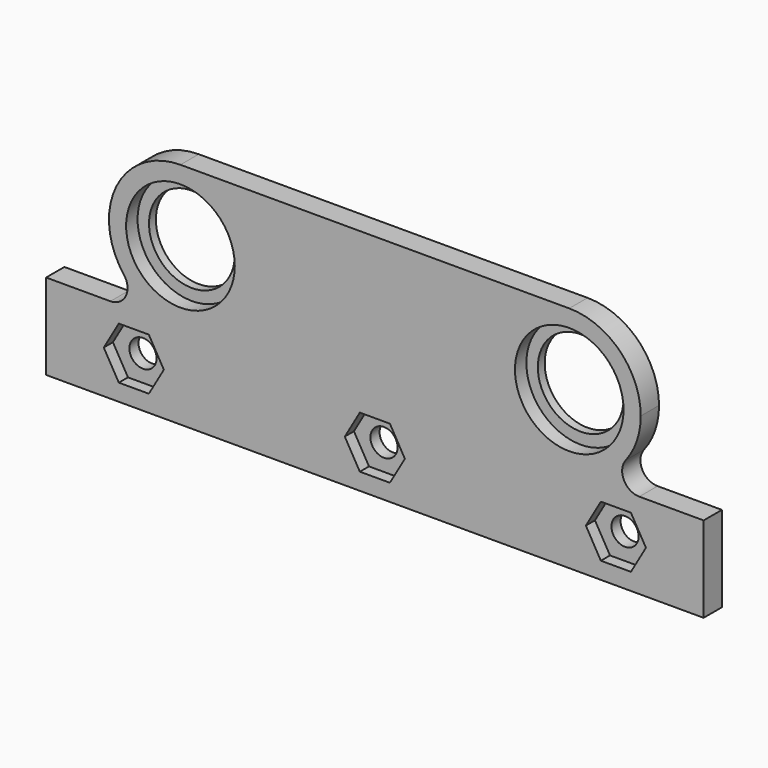
from build123d import *

# Parameters (mm, degrees)
F0_R     = 7.5
F1_DEPTH = 4
F2_R     = 9.5
F3_DEPTH = 2.5
F4_R     = 2.375
F5_DEPTH = 4.001
F7_DEPTH = 2


with BuildPart() as f1:
    # F0 (on Front) → F1 (new body)
    with BuildSketch(Plane.XZ):
        with BuildLine():
            ThreePointArc((-34, -12.5), (-25.161165, -8.838835), (-21.5, 0))
            ThreePointArc((-21.5, 0), (-25.161165, 8.838835), (-34, 12.5))
            ThreePointArc((-34, 12.5), (-45.225331, 5.499267), (-43.876975, -7.66129))
            ThreePointArc((-43.876975, -7.66129), (-39.499267, -11.225331), (-34, -12.5))
        make_face()
        with Locations((-34, 0)):
            Circle(F0_R, mode=Mode.SUBTRACT)
        with BuildLine():
            ThreePointArc((-34, 12.5), (-25.161165, 8.838835), (-21.5, 0))
            ThreePointArc((-21.5, 0), (-25.161165, -8.838835), (-34, -12.5))
            Line((-34, -12.5), (34, -12.5))
            ThreePointArc((34, -12.5), (21.5, 0), (34, 12.5))
            Line((34, 12.5), (-34, 12.5))
        make_face()
        with BuildLine():
            Line((-46.247449, -12.5), (-34, -12.5))
            ThreePointArc((-34, -12.5), (-39.499267, -11.225331), (-43.876975, -7.66129))
            ThreePointArc((-43.876975, -7.66129), (-43.553369, -10.819824), (-46.247449, -12.5))
        make_face()
        Polygon((34, -12.5), (-34, -12.5), (-46.247449, -12.5), (-57.5, -12.5), (-57.5, -27.5), (57.5, -27.5), (57.5, -12.5), (46.247449, -12.5), align=None)
        with BuildLine():
            ThreePointArc((46.5, 0), (42.838835, 8.838835), (34, 12.5))
            ThreePointArc((34, 12.5), (21.5, 0), (34, -12.5))
            ThreePointArc((34, -12.5), (39.499267, -11.225331), (43.876975, -7.66129))
            ThreePointArc((43.876975, -7.66129), (45.826077, -4.048939), (46.5, 0))
        make_face()
        with Locations((34, 0)):
            Circle(F0_R, mode=Mode.SUBTRACT)
        with BuildLine():
            ThreePointArc((43.876975, -7.66129), (39.499267, -11.225331), (34, -12.5))
            Line((34, -12.5), (46.247449, -12.5))
            ThreePointArc((46.247449, -12.5), (43.553369, -10.819824), (43.876975, -7.66129))
        make_face()
    extrude(amount=F1_DEPTH)

    # F2 (on face) → F3 (cut)
    with BuildSketch(Plane.XZ.offset(4)):
        with Locations((-34, 0)):
            Circle(F2_R)
        with Locations((34, 0)):
            Circle(F2_R)
    extrude(amount=-F3_DEPTH, mode=Mode.SUBTRACT)

    # F4 (on face) → F5 (cut, through all)
    with BuildSketch(Plane.XZ.offset(4)):
        with Locations((0, -20)):
            Circle(F4_R)
        with Locations((42.155199, -20)):
            Circle(F4_R)
        with Locations((-42.155199, -20)):
            Circle(F4_R)
    extrude(amount=-F5_DEPTH, mode=Mode.SUBTRACT)

    # F6 (on face) → F7 (cut)
    with BuildSketch(Plane.XZ.offset(4)):
        Polygon((2.626944, -15.45), (-2.626944, -15.45), (-5.253887, -20), (-2.626944, -24.55), (2.626944, -24.55), (5.253887, -20), align=None)
        Polygon((-39.528255, -15.45), (-44.782142, -15.45), (-47.409086, -20), (-44.782142, -24.55), (-39.528255, -24.55), (-36.901311, -20), align=None)
        Polygon((44.782142, -15.45), (39.528255, -15.45), (36.901311, -20), (39.528255, -24.55), (44.782142, -24.55), (47.409086, -20), align=None)
    extrude(amount=-F7_DEPTH, mode=Mode.SUBTRACT)


solid = f1.part
